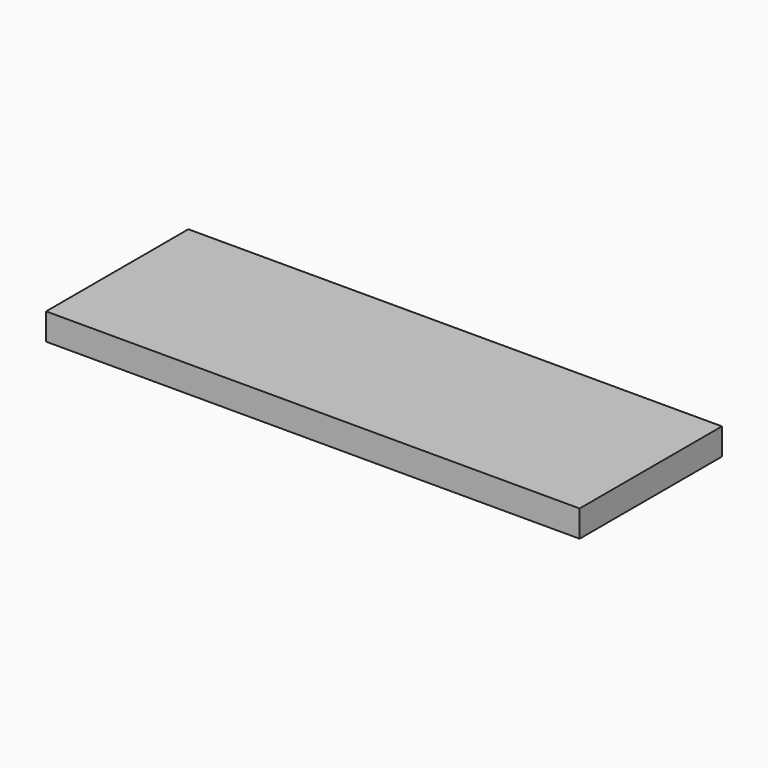
from build123d import *

# Parameters (mm, degrees)
F0_W     = 762
F0_H     = 254
F0_W_2   = 736.6
F0_H_2   = 228.6
F1_DEPTH = 6.35
F2_DEPTH = 31.75


with BuildPart() as f1:
    # F0 (on Top) → F1 (new body)
    with BuildSketch(Plane.XY):
        with Locations((247.848826, 57.758901)):
            Rectangle(F0_W, F0_H)
        with Locations((247.848826, 57.758901)):
            Rectangle(F0_W_2, F0_H_2, mode=Mode.SUBTRACT)
        with Locations((247.848826, 57.758901)):
            Rectangle(F0_W_2, F0_H_2)
    extrude(amount=F1_DEPTH)

    # F0 (on Top) → F2 (join)
    with BuildSketch(Plane.XY):
        with Locations((247.848826, 57.758901)):
            Rectangle(F0_W, F0_H)
        with Locations((247.848826, 57.758901)):
            Rectangle(F0_W_2, F0_H_2, mode=Mode.SUBTRACT)
    extrude(amount=-F2_DEPTH)


solid = f1.part
